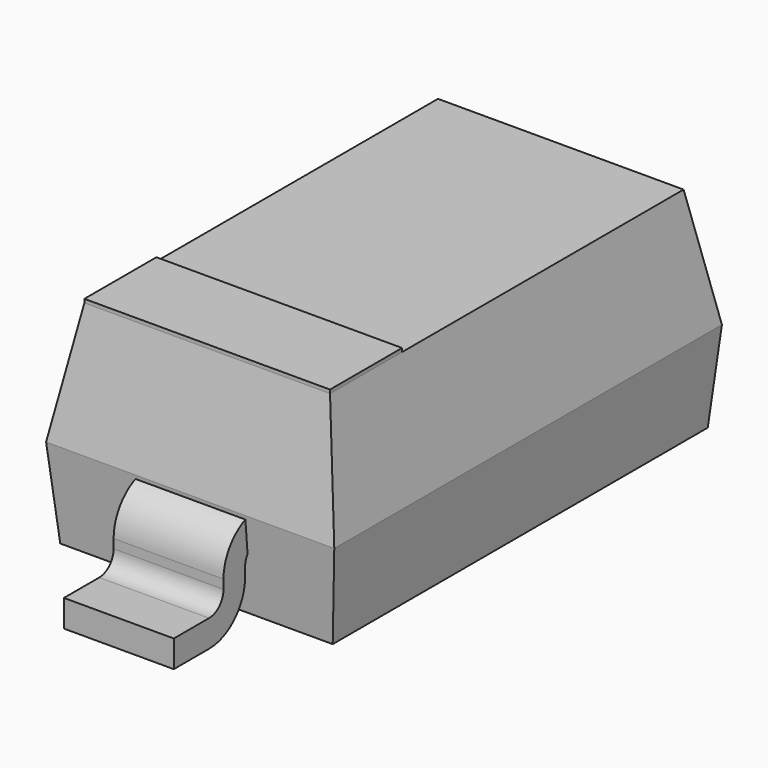
from build123d import *

# Parameters (mm, degrees)
F0_W     = 1.6
F0_H     = 2.69
F1_DEPTH = 0.5
F1_TAPER = 5
F2_DEPTH = 0.67
F2_TAPER = 10
F4_DEPTH = 0.305
F5_R     = 0.1
F6_R     = 0.25
F7_W     = 1.3637218459
F7_H     = 0.5
F8_DEPTH = 0.02


with BuildPart() as f1:
    # F0 (on Top) → F1 (new body)
    with BuildSketch(Plane.XY):
        Rectangle(F0_W, F0_H)
    extrude(amount=-F1_DEPTH, taper=F1_TAPER)

    # F0 (on Top) → F2 (join)
    with BuildSketch(Plane.XY):
        Rectangle(F0_W, F0_H)
    extrude(amount=F2_DEPTH, taper=F2_TAPER)


with BuildPart() as f4:
    # F3 (on Right) → F4 (new body, symmetric)
    with BuildSketch(Plane.YZ):
        Polygon((1.495, 0), (0, 0), (-1.495, 0), (-1.495, -0.4), (-1.84, -0.4), (-1.84, -0.55), (-1.345, -0.55), (-1.345, -0.15), (0, -0.15), (1.345, -0.15), (1.345, -0.55), (1.84, -0.55), (1.84, -0.4), (1.495, -0.4), align=None)
    extrude(amount=F4_DEPTH, both=True)

    # F5
    f5_edges = [f4.edges().sort_by_distance(p)[0] for p in [
        (0, 1.495, -0.4),
        (0, -1.495, -0.4),
        (0, 1.345, -0.15),
        (0, -1.345, -0.15),
    ]]
    fillet(f5_edges, radius=F5_R)

    # F6
    f6_edges = [f4.edges().sort_by_distance(p)[0] for p in [
        (0, -1.495, 0),
        (0, -1.345, -0.55),
        (0, 1.345, -0.55),
        (0, 1.495, 0),
    ]]
    fillet(f6_edges, radius=F6_R)


with BuildPart() as f8:
    # F7 (on face) → F8 (new body)
    with BuildSketch(Plane.XY.offset(0.67)):
        with Locations((0, -0.9768609229)):
            Rectangle(F7_W, F7_H)
    extrude(amount=F8_DEPTH)


solid = Compound([f1.part, f4.part, f8.part])
